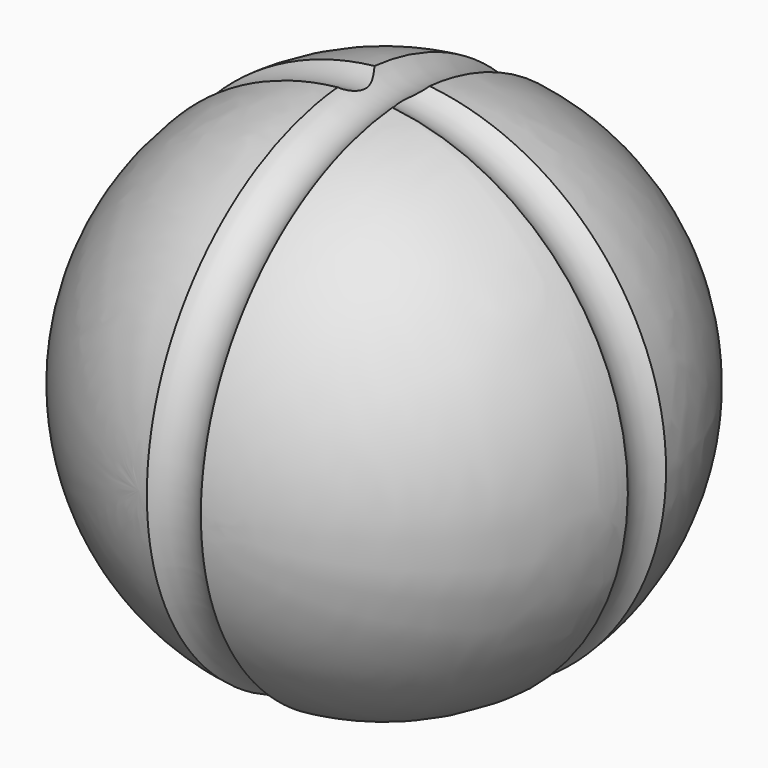
from build123d import *

# Parameters (mm, degrees)
F3_R = 8.6197954978
F6_R = 8.2253017382


with BuildPart() as f1:
    # F0 (on Top) → F1 (revolve)
    with BuildSketch(Plane.XY):
        with BuildLine():
            Line((-8.3599954439, -60.9184992153), (8.6805566769, 60.8736478802))
            ThreePointArc((8.6805566769, 60.8736478802), (-60.8962844795, 8.5203055729), (-8.3599954439, -60.9184992153))
        make_face()
    revolve(axis=Axis((0.1602806165, -0.0224256675, 0), (0.138565313, 0.9903532976, 0)))

    # F3 (on Top) → F4 (revolve, cut)
    with BuildSketch(Plane.XY):
        with Locations((68.1245699525, 0)):
            Circle(F3_R)
    revolve(axis=Axis((0, 0, 0), (0, -1, 0)), mode=Mode.SUBTRACT)

    # F6 (on Front) → F7 (revolve, cut)
    with BuildSketch(Plane.XZ):
        with Locations((0, 66.4631426334)):
            Circle(F6_R)
    revolve(axis=Axis((0, 0, 0), (1, 0, 0)), mode=Mode.SUBTRACT)


solid = f1.part
